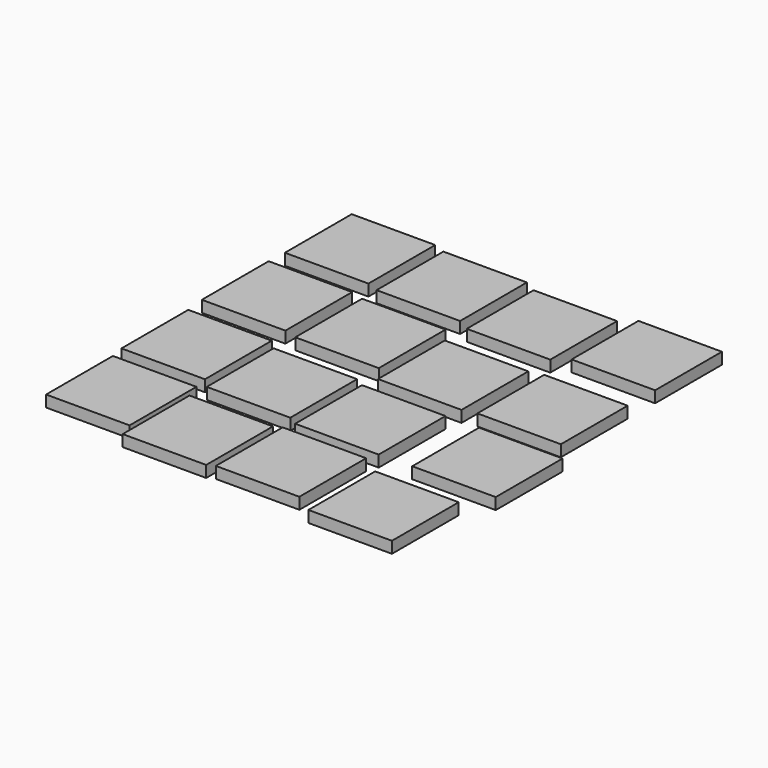
from build123d import *

# Parameters (mm, degrees)
F0_W     = 18.480055
F0_H     = 18.48005
F0_H_2   = 18.480049
F0_W_2   = 18.480054
F1_DEPTH = 2.54


with BuildPart() as f1:
    # F0 (on Top) → F1 (new body)
    with BuildSketch(Plane.XY):
        with Locations((-38.257863, 49.479996)):
            Rectangle(F0_W, F0_H)
        with Locations((-17.285004, 23.655622)):
            Rectangle(F0_W, F0_H_2)
        with Locations((7.716027, 1.873574)):
            Rectangle(F0_W, F0_H_2)
        with Locations((-38.559056, 2.889574)):
            Rectangle(F0_W, F0_H_2)
        with Locations((-59.579108, 27.801595)):
            Rectangle(F0_W_2, F0_H_2)
        with Locations((4.252726, 50.284651)):
            Rectangle(F0_W, F0_H)
        with Locations((-18.852094, -19.232648)):
            Rectangle(F0_W, F0_H_2)
        with Locations((-58.450968, -16.692245)):
            Rectangle(F0_W, F0_H_2)
        with Locations((-59.370402, 50.514985)):
            Rectangle(F0_W, F0_H)
        with Locations((-59.061225, 4.917191)):
            Rectangle(F0_W, F0_H)
        with Locations((-38.866378, -19.987656)):
            Rectangle(F0_W, F0_H)
        with Locations((-38.210105, 26.927891)):
            Rectangle(F0_W, F0_H_2)
        with Locations((-17.05761, 47.923069)):
            Rectangle(F0_W, F0_H_2)
        with Locations((-18.01539, 1.660541)):
            Rectangle(F0_W, F0_H_2)
        with Locations((3.925739, -22.102743)):
            Rectangle(F0_W, F0_H_2)
        with Locations((4.148806, 24.346974)):
            Rectangle(F0_W, F0_H_2)
    extrude(amount=F1_DEPTH)


solid = f1.part
